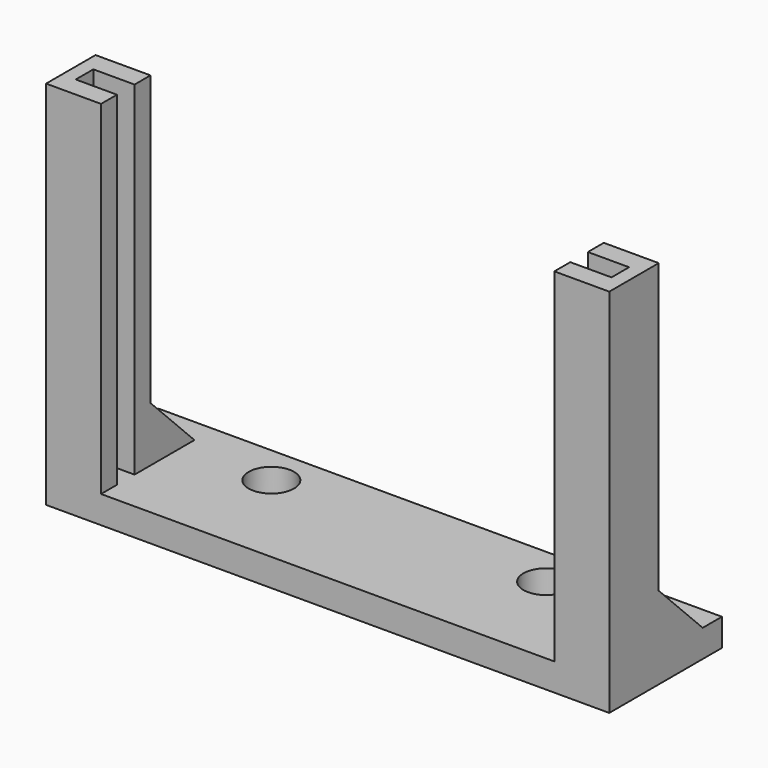
from build123d import *

# Parameters (mm, degrees)
SKETCH_W     = 41
SKETCH_H     = 10.25
PAD_DEPTH    = 2
PAD001_DEPTH = 25
SKETCH003_R  = 1.65
POCKET_DEPTH = 102.301798
CHAMFER_SIZE = 4


with BuildPart() as part:
    # Sketch → Pad (new body)
    with BuildSketch(Plane.XY):
        with Locations((0, 5.125)):
            Rectangle(SKETCH_W, SKETCH_H)
    extrude(amount=PAD_DEPTH)

    # Sketch002 (on Face6 of Pad) → Pad001 (join)
    with BuildSketch(Plane.XY.offset(2)):
        Polygon((16.5, 4.5), (20.5, 4.5), (20.5, 0), (16.5, 0), (16.5, 1.45), (19.5, 1.45), (19.5, 3.05), (16.5, 3.05), align=None)
    pad001 = extrude(amount=PAD001_DEPTH)

    # Sketch003 (on Face5 of Pad001) → Pocket (cut, through all)
    with BuildSketch(Plane.XY.offset(2)):
        with Locations((10, 7.375)):
            Circle(SKETCH003_R)
    pocket = extrude(amount=-POCKET_DEPTH, mode=Mode.SUBTRACT)

    # Mirrored: Pocket, Pad001 across Sketch003 V_Axis
    add(pocket.mirror(Plane(origin=(0, 0, 2), x_dir=(0, 0, 1), z_dir=(1, 0, 0))), mode=Mode.SUBTRACT)
    add(pad001.mirror(Plane(origin=(0, 0, 2), x_dir=(0, 0, 1), z_dir=(1, 0, 0))))

    # Chamfer
    chamfer_edges = [part.edges().sort_by_distance(p)[0] for p in [
        (18.5, 4.5, 2),
        (-18.5, 4.5, 2),
    ]]
    chamfer(chamfer_edges, length=CHAMFER_SIZE)


solid = part.part
